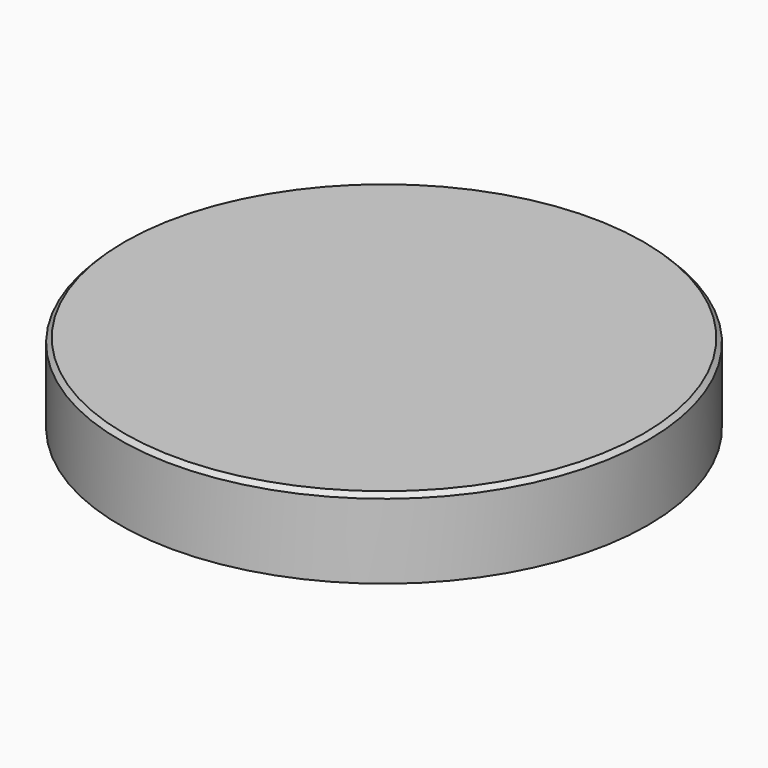
from build123d import *

# Parameters (mm, degrees)
SKETCH002_R  = 30
PAD004_DEPTH = 9
THICKNESS_T  = -1
CHAMFER_SIZE = 0.5
POCKET_DEPTH = 30.001


with BuildPart() as part:
    # Sketch002 → Pad004 (new body)
    with BuildSketch(Plane.XY):
        Circle(SKETCH002_R)
    extrude(amount=PAD004_DEPTH)

    # Thickness
    thickness_openings = [part.faces().sort_by_distance(p)[0] for p in [
        (0, 0, 0),
    ]]
    offset(amount=THICKNESS_T, openings=thickness_openings)

    # Chamfer
    chamfer_edges = [part.edges().sort_by_distance(p)[0] for p in [
        (-30, 0, 9),
    ]]
    chamfer(chamfer_edges, length=CHAMFER_SIZE)

    # Sketch003 → Pocket (cut, through all)
    with BuildSketch(Plane.YZ):
        with BuildLine():
            ThreePointArc((2.291288, 0), (0, 3.5), (-2.291288, 0))
            Line((-2.291288, 0), (2.291288, 0))
        make_face()
    extrude(amount=-POCKET_DEPTH, mode=Mode.SUBTRACT)


solid = part.part
